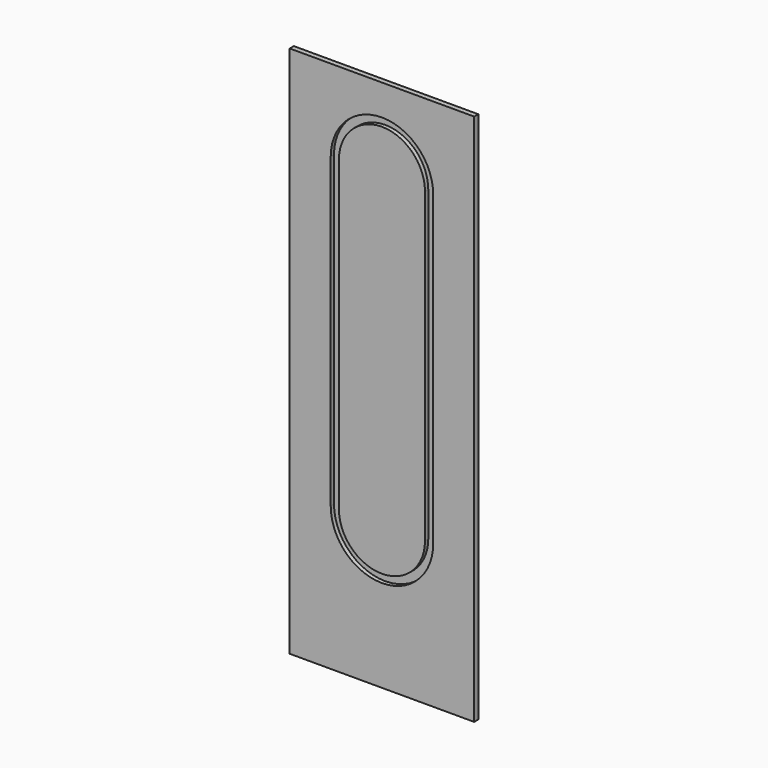
from build123d import *

# Parameters (mm, degrees)
F0_W     = 900
F0_H     = 2600
F1_DEPTH = 25
F3_DEPTH = 20


with BuildPart() as f1:
    # F0 (on Front) → F1 (new body)
    with BuildSketch(Plane.XZ):
        Rectangle(F0_W, F0_H)
    extrude(amount=F1_DEPTH)

    # F2 (on face) → F3 (cut)
    with BuildSketch(Plane.XZ.offset(25)):
        with BuildLine():
            Line((250, -600), (250, 900))
            ThreePointArc((250, 900), (0, 1150), (-250, 900))
            Line((-250, 900), (-250, -600))
            ThreePointArc((-250, -600), (0, -850), (250, -600))
        make_face()
        with BuildLine():
            ThreePointArc((-210, 900), (0, 1110), (210, 900))
            Line((210, 900), (210, -600))
            ThreePointArc((210, -600), (0, -810), (-210, -600))
            Line((-210, -600), (-210, 900))
        make_face(mode=Mode.SUBTRACT)
    extrude(amount=-F3_DEPTH, mode=Mode.SUBTRACT)


solid = f1.part
